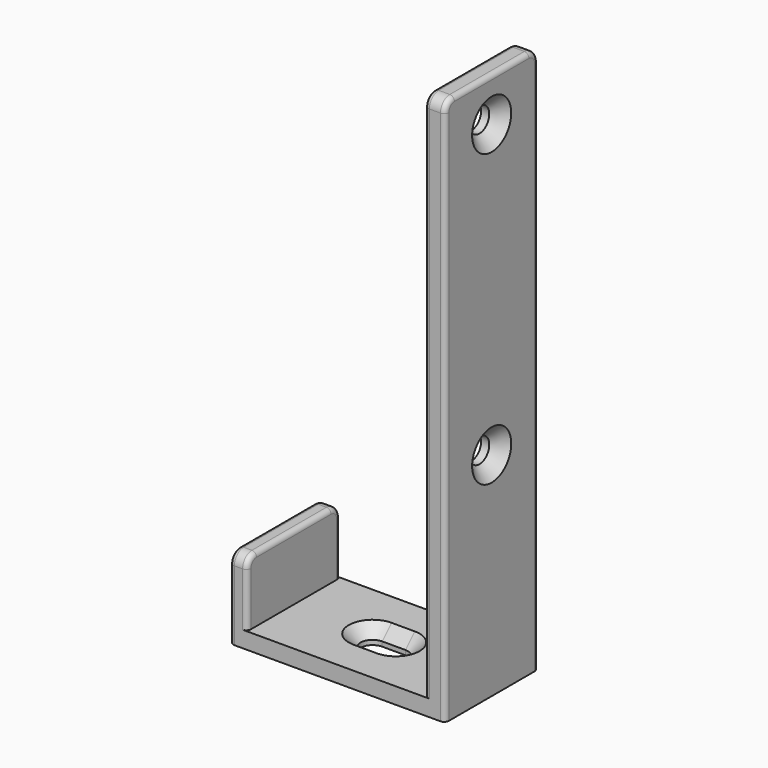
from build123d import *

# Parameters (mm, degrees)
SKETCH018_W         = 30.5
SKETCH018_H         = 20
PAD010_DEPTH        = 2.8
PAD011_DEPTH        = 3
PAD012_DEPTH        = 3.5
HOLE005_D           = 4.2
HOLE005_DEPTH       = 25
HOLE005_CSINK_D     = 8.4
HOLE005_CSINK_ANGLE = 90
HOLE005_TIPS_R      = 2.1
POCKET003_DEPTH     = 2.801
CHAMFER001_SIZE     = 2
FILLET001_R         = 0.8


with BuildPart() as part:
    # Sketch018 → Pad010 (new body)
    with BuildSketch(Plane.XY):
        with Locations((18.25, 10)):
            Rectangle(SKETCH018_W, SKETCH018_H)
    extrude(amount=PAD010_DEPTH)

    # Sketch019 (on Face4 of Pad010) → Pad011 (join)
    with BuildSketch(Plane(origin=(3, 0, 0), x_dir=(0, -1, 0), z_dir=(-1, 0, 0))):
        with BuildLine():
            Line((-20, 0), (0, 0))
            Line((0, 0), (0, 12))
            ThreePointArc((0, 12), (-0.585786, 13.414214), (-2, 14))
            Line((-2, 14), (-18, 14))
            ThreePointArc((-18, 14), (-19.414214, 13.414214), (-20, 12))
            Line((-20, 12), (-20, 0))
        make_face()
    extrude(amount=PAD011_DEPTH)

    # Sketch020 (on Face1 of Pad011) → Pad012 (join)
    with BuildSketch(Plane.YZ.offset(33.5)):
        with BuildLine():
            Line((20, 0), (20, 92))
            ThreePointArc((20, 92), (19.414214, 93.414214), (18, 94))
            Line((18, 94), (2, 94))
            ThreePointArc((2, 94), (0.585786, 93.414214), (0, 92))
            Line((0, 92), (0, 0))
            Line((0, 0), (20, 0))
        make_face()
    extrude(amount=PAD012_DEPTH)

    # Hole005
    with Locations(Plane.YZ.offset(37)):
        with Locations((10, 36.5), (10, 86.5)):
            CounterSinkHole(HOLE005_D / 2, HOLE005_CSINK_D / 2, depth=HOLE005_DEPTH, counter_sink_angle=HOLE005_CSINK_ANGLE)

    # Hole005 tips → Hole005 tip 1 section 0
    with BuildSketch(Plane.YZ.offset(12), mode=Mode.PRIVATE) as hole005_tip_1_s0:
        with Locations((10, 36.5)):
            Circle(HOLE005_TIPS_R)
    loft([hole005_tip_1_s0.sketch, Vertex(10.738193, 10, 36.5)], mode=Mode.SUBTRACT)

    # Hole005 tips → Hole005 tip 2 section 0
    with BuildSketch(Plane.YZ.offset(12), mode=Mode.PRIVATE) as hole005_tip_2_s0:
        with Locations((10, 86.5)):
            Circle(HOLE005_TIPS_R)
    loft([hole005_tip_2_s0.sketch, Vertex(10.738193, 10, 86.5)], mode=Mode.SUBTRACT)

    # Sketch022 (on Face1 of Hole005) → Pocket003 (cut, through all)
    with BuildSketch(Plane.XY.offset(2.8)):
        with BuildLine():
            ThreePointArc((16.553834, 12.053193), (14.478422, 9.977781), (16.553834, 7.902369))
            Line((16.553834, 7.902369), (20.553834, 7.902369))
            ThreePointArc((20.553834, 7.902369), (22.629246, 9.977781), (20.553834, 12.053193))
            Line((16.553834, 12.053193), (20.553834, 12.053193))
        make_face()
    extrude(amount=-POCKET003_DEPTH, mode=Mode.SUBTRACT)

    # Chamfer001
    chamfer001_edges = [part.edges().sort_by_distance(p)[0] for p in [
        (18.553834, 7.902369, 2.8),
    ]]
    chamfer(chamfer001_edges, length=CHAMFER001_SIZE)

    # Fillet001
    fillet001_edges = [part.edges().sort_by_distance(p)[0] for p in [
        (0, 10, 14),
        (3, 10, 14),
        (33.5, 10, 94),
        (37, 10, 94),
    ]]
    fillet(fillet001_edges, radius=FILLET001_R)


with BuildPart() as part_1:
    # Body004 placement: moved
    add(part.part.moved(Location((0, -21.9, 0))))


solid = part_1.part
